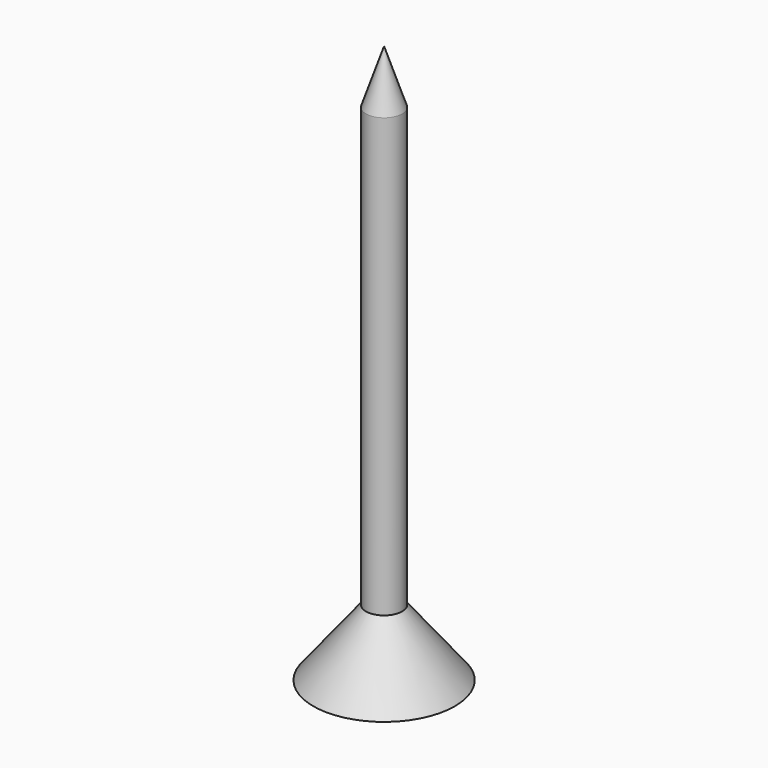
from build123d import *


with BuildPart() as f1:
    # F0 (on Front) → F1 (revolve)
    with BuildSketch(Plane.XZ):
        Polygon((0, 7.333337), (0, 0), (7.833338, 0), (2.000001, 7.333337), align=None)
        Polygon((0, 61.742231), (0, 7.333337), (2.000001, 7.333337), (2.000001, 55.794585), align=None)
    revolve(axis=Axis((0, 0, 34.537784), (0, 0, 1)))


solid = f1.part
